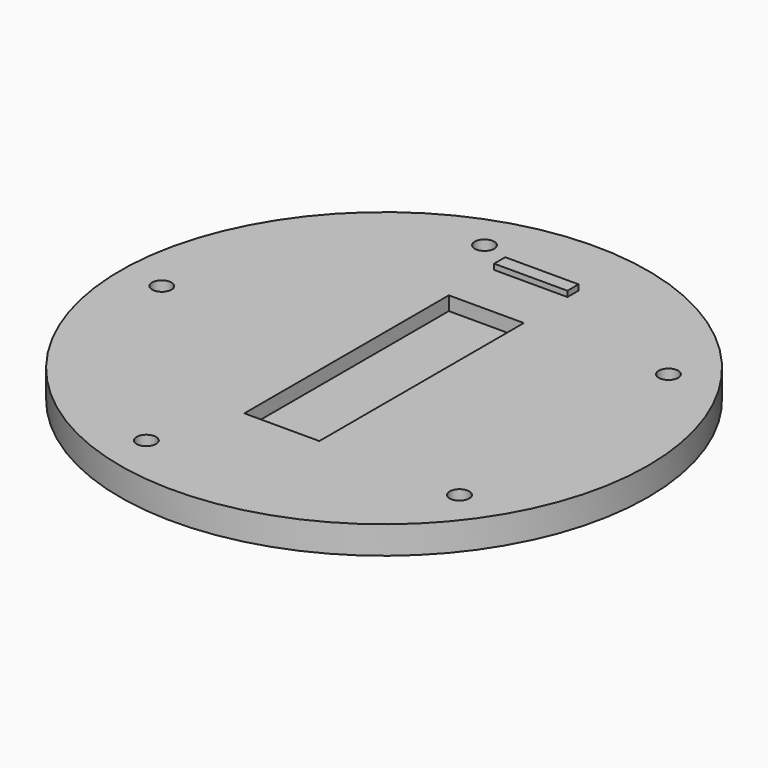
from build123d import *

# Parameters (mm, degrees)
SKETCH024_R     = 47.5
PAD007_DEPTH    = 5
SKETCH025_W     = 13.5
SKETCH025_H     = 46
POCKET014_DEPTH = 2.5
SKETCH026_R     = 1.75
POCKET015_DEPTH = 5
SKETCH023_W     = 13.2
SKETCH023_H     = 2.5
PAD008_DEPTH    = 1


with BuildPart() as part:
    # Sketch024 → Pad007 (new body)
    with BuildSketch(Plane.XY):
        Circle(SKETCH024_R)
    extrude(amount=PAD007_DEPTH)

    # Sketch025 (on Face3 of Pad007) → Pocket014 (cut)
    with BuildSketch(Plane.XY.offset(5)):
        Rectangle(SKETCH025_W, SKETCH025_H)
    extrude(amount=-POCKET014_DEPTH, mode=Mode.SUBTRACT)

    # Sketch026 (on Face3 of Pocket014) → Pocket015 (cut)
    with BuildSketch(Plane.XY.offset(5)):
        with Locations((-40, 0)):
            Circle(SKETCH026_R)
        with Locations((-12.363995, 38.041183)):
            Circle(SKETCH026_R)
        with Locations((32.356581, 23.51705)):
            Circle(SKETCH026_R)
        with Locations((32.366826, -23.502949)):
            Circle(SKETCH026_R)
        with Locations((-12.347418, -38.046567)):
            Circle(SKETCH026_R)
    extrude(amount=-POCKET015_DEPTH, mode=Mode.SUBTRACT)

    # Sketch023 (on Face3 of Pocket015) → Pad008 (join)
    with BuildSketch(Plane.XY.offset(5)):
        with Locations((0, 34.25)):
            Rectangle(SKETCH023_W, SKETCH023_H)
    extrude(amount=PAD008_DEPTH)


solid = part.part
